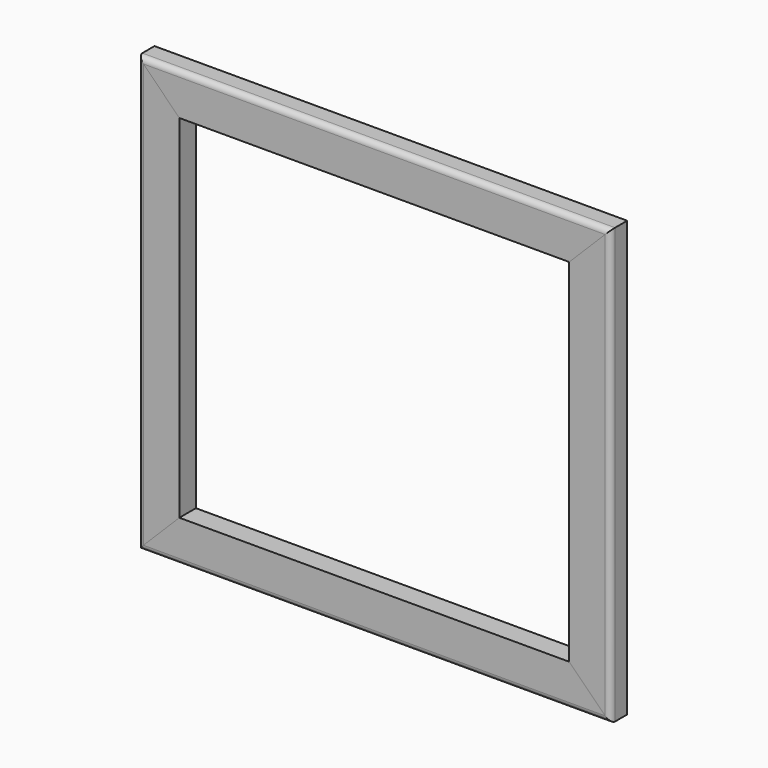
from build123d import *

# Parameters (mm, degrees)
F2_DEPTH  = 9.525
F4_DEPTH  = 9.525
F11_R     = 3.175
F12_DEPTH = 2.54
F13_R     = 5.08
F13_2_R   = 5.08
F13_3_R   = 5.08
F13_4_R   = 5.08


with BuildPart() as f2:
    # F1 (on Front) → F2 (new body, symmetric)
    with BuildSketch(Plane.XZ):
        Polygon((0, 400.05), (0, 0), (38.1, 38.1), (38.1, 361.95), align=None)
    extrude(amount=F2_DEPTH, both=True)


with BuildPart() as f4:
    # F3 (on Front) → F4 (new body, symmetric)
    with BuildSketch(Plane.XZ):
        Polygon((38.1, 38.1), (0, 0), (434.975, 0), (396.875, 38.1), align=None)
    extrude(amount=F4_DEPTH, both=True)


with BuildPart() as f7_1:
    # F7: instance of F2
    add(f2.part.mirror(Plane.YZ.offset(217.4875)))

    # F13#3
    f13_3_edges = [f7_1.edges().sort_by_distance(p)[0] for p in [
        (434.975, -9.525, 200.025),
    ]]
    fillet(f13_3_edges, radius=F13_3_R)


with BuildPart() as f10_1:
    # F10: instance of F4
    add(f4.part.mirror(Plane.XY.offset(200.025)))

    # F13#4
    f13_4_edges = [f10_1.edges().sort_by_distance(p)[0] for p in [
        (217.4875, -9.525, 400.05),
    ]]
    fillet(f13_4_edges, radius=F13_4_R)


with BuildPart() as f2_1:
    add(f2.part)

    # F11 (on face) → F12 (cut)
    with BuildSketch(Plane(origin=(0, 9.525, 0), x_dir=(-1, 0, 0), z_dir=(0, 1, 0))):
        with Locations((-5.08, 357.8225)):
            Circle(F11_R)
    extrude(amount=-F12_DEPTH, mode=Mode.SUBTRACT)

    # F13
    f13_edges = [f2_1.edges().sort_by_distance(p)[0] for p in [
        (0, -9.525, 200.025),
    ]]
    fillet(f13_edges, radius=F13_R)


with BuildPart() as f4_1:
    add(f4.part)

    # F13#2
    f13_2_edges = [f4_1.edges().sort_by_distance(p)[0] for p in [
        (217.4875, -9.525, 0),
    ]]
    fillet(f13_2_edges, radius=F13_2_R)


solid = Compound([f7_1.part, f10_1.part, f2_1.part, f4_1.part])
